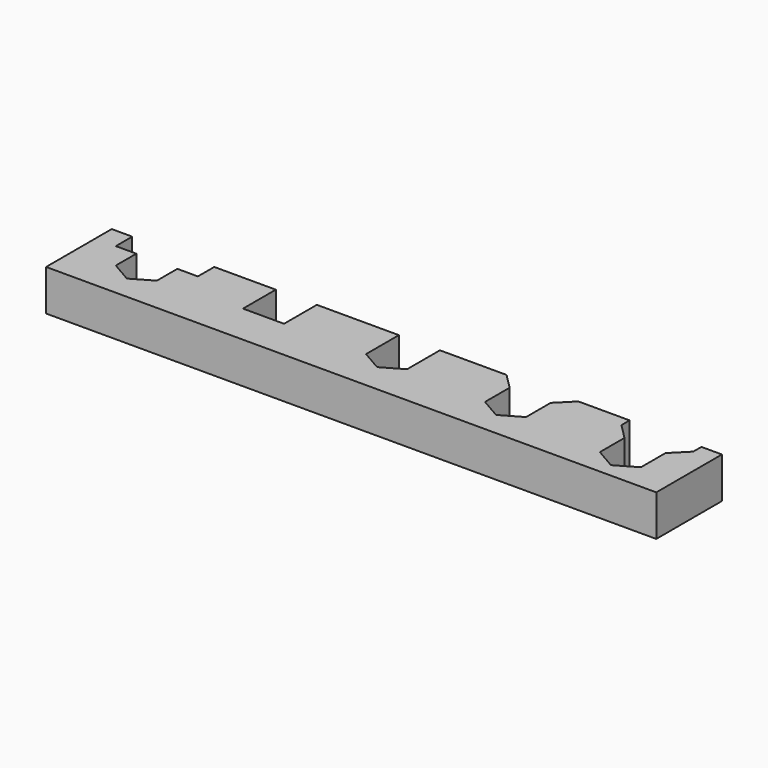
from build123d import *

# Parameters (mm, degrees)
F1_DEPTH = 25.4


with BuildPart() as f1:
    # F0 (on Top) → F1 (new body)
    with BuildSketch(Plane.XY):
        Polygon((130.175, -6.35), (130.175, 0), (98.425, 0), (88.9, -9.525), (88.9, -28.575), (76.2, -35.9073484187), (63.5, -28.575), (63.5, -9.525), (53.975, 0), (12.7, 0), (12.7, -25.4), (0, -32.7323484187), (-12.7, -25.4), (-12.7, 0), (-63.5, 0), (-63.5, -25.4), (-76.2, -25.4), (-88.9, -25.4), (-88.9, 0), (-127, 0), (-127, -12.7), (-139.7, -12.7), (-139.7, -28.575), (-152.4, -35.9073484187), (-165.1, -28.575), (-165.1, -12.7), (-177.8, -12.7), (-177.8, 0), (-190.5, 0), (-190.5, -50.8), (187.325, -50.8), (187.325, 0), (174.625, 0), (174.625, -6.35), (165.1, -15.875), (165.1, -34.925), (152.4, -42.2573484187), (139.7, -34.925), (139.7, -15.875), align=None)
    extrude(amount=F1_DEPTH)


solid = f1.part
